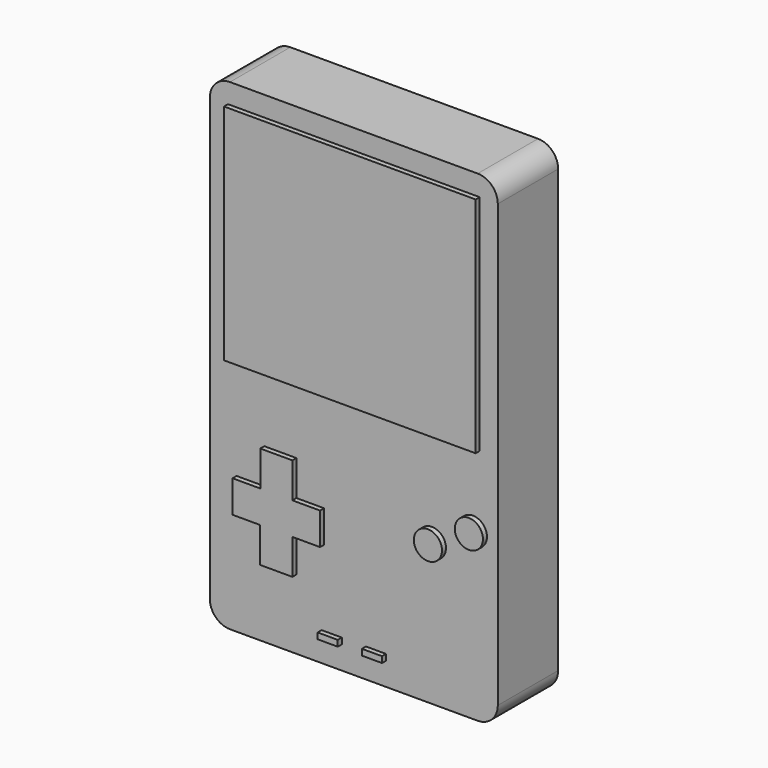
from build123d import *

# Parameters (mm, degrees)
F0_W     = 72.736366
F0_H     = 121.693536
F1_DEPTH = 19.05
F2_W     = 63.592366
F2_H     = 56.449744
F2_R     = 3.556
F2_W_2   = 5.08
F2_H_2   = 1.524
F3_DEPTH = 1.27
F4_R     = 5.08


with BuildPart() as f1:
    # F0 (on Front) → F1 (new body)
    with BuildSketch(Plane.XZ):
        Rectangle(F0_W, F0_H)
    extrude(amount=F1_DEPTH)

    # F2 (on face) → F3 (join)
    with BuildSketch(Plane.XZ.offset(19.05)):
        with Locations((0, 27.541896)):
            Rectangle(F2_W, F2_H)
        Polygon((-14.500647, -17.314185), (-22.619766, -17.314185), (-22.619766, -26.204185), (-29.613647, -26.204185), (-29.613647, -34.332185), (-22.628647, -34.332185), (-22.628647, -43.222185), (-14.500647, -43.222185), (-14.500647, -34.332185), (-7.515647, -34.332185), (-7.515647, -26.204185), (-14.500647, -26.204185), align=None)
        with Locations((30.073691, -19.163234)):
            Circle(F2_R)
        with Locations((19.722743, -25.038093)):
            Circle(F2_R)
        with Locations((-5.588, -54.265258)):
            Rectangle(F2_W_2, F2_H_2)
        with Locations((5.588, -54.265258)):
            Rectangle(F2_W_2, F2_H_2)
    extrude(amount=F3_DEPTH)

    # F4
    f4_edges = [f1.edges().sort_by_distance(p)[0] for p in [
        (-36.368183, -9.525, 60.846768),
        (36.368183, -9.525, 60.846768),
        (36.368183, -9.525, -60.846768),
        (-36.368183, -9.525, -60.846768),
    ]]
    fillet(f4_edges, radius=F4_R)


solid = f1.part
